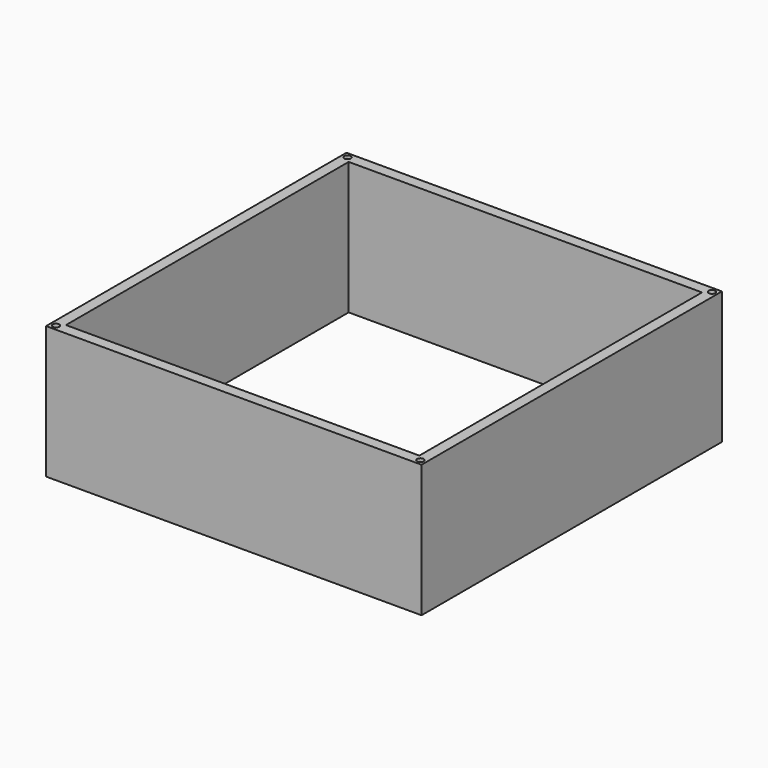
from build123d import *

# Parameters (mm, degrees)
F1_DEPTH = 60


with BuildPart() as f1:
    # F0 (on Top) → F1 (new body)
    with BuildSketch(Plane.XY):
        with BuildLine():
            Line((-85, -85), (85, -85))
            Line((85, -85), (83.56066, -83.56066))
            ThreePointArc((83.56066, -83.56066), (81.43934, -83.56066), (81.43934, -81.43934))
            Line((81.43934, -81.43934), (80.000001, -80.000001))
            Line((80.000001, -80.000001), (-80.000001, -80.000001))
            Line((-80.000001, -80.000001), (-81.43934, -81.43934))
            ThreePointArc((-81.43934, -81.43934), (-81.114181, -81.925975), (-81, -82.5))
            ThreePointArc((-81, -82.5), (-81.925975, -83.88582), (-83.56066, -83.56066))
            Line((-83.56066, -83.56066), (-85, -85))
        make_face()
        with BuildLine():
            Line((-85, 85), (-85, -85))
            Line((-85, -85), (-83.56066, -83.56066))
            ThreePointArc((-83.56066, -83.56066), (-83.56066, -81.43934), (-81.43934, -81.43934))
            Line((-81.43934, -81.43934), (-80.000001, -80.000001))
            Line((-80.000001, -80.000001), (-80.000001, 80.000001))
            Line((-80.000001, 80.000001), (-81.43934, 81.43934))
            ThreePointArc((-81.43934, 81.43934), (-83.56066, 81.43934), (-83.56066, 83.56066))
            Line((-83.56066, 83.56066), (-85, 85))
        make_face()
        with BuildLine():
            Line((83.56066, -83.56066), (85, -85))
            Line((85, -85), (85, 85))
            Line((85, 85), (83.56066, 83.56066))
            ThreePointArc((83.56066, 83.56066), (83.88582, 83.074025), (84, 82.5))
            ThreePointArc((84, 82.5), (83.074025, 81.114181), (81.43934, 81.43934))
            Line((81.43934, 81.43934), (80.000001, 80.000001))
            Line((80.000001, 80.000001), (80.000001, -80.000001))
            Line((80.000001, -80.000001), (81.43934, -81.43934))
            ThreePointArc((81.43934, -81.43934), (83.074025, -81.114181), (84, -82.5))
            ThreePointArc((84, -82.5), (83.88582, -83.074025), (83.56066, -83.56066))
        make_face()
        with BuildLine():
            Line((83.56066, 83.56066), (85, 85))
            Line((85, 85), (-85, 85))
            Line((-85, 85), (-83.56066, 83.56066))
            ThreePointArc((-83.56066, 83.56066), (-81.925975, 83.88582), (-81, 82.5))
            ThreePointArc((-81, 82.5), (-81.114181, 81.925975), (-81.43934, 81.43934))
            Line((-81.43934, 81.43934), (-80.000001, 80.000001))
            Line((-80.000001, 80.000001), (80.000001, 80.000001))
            Line((80.000001, 80.000001), (81.43934, 81.43934))
            ThreePointArc((81.43934, 81.43934), (81.43934, 83.56066), (83.56066, 83.56066))
        make_face()
    extrude(amount=F1_DEPTH)


solid = f1.part
